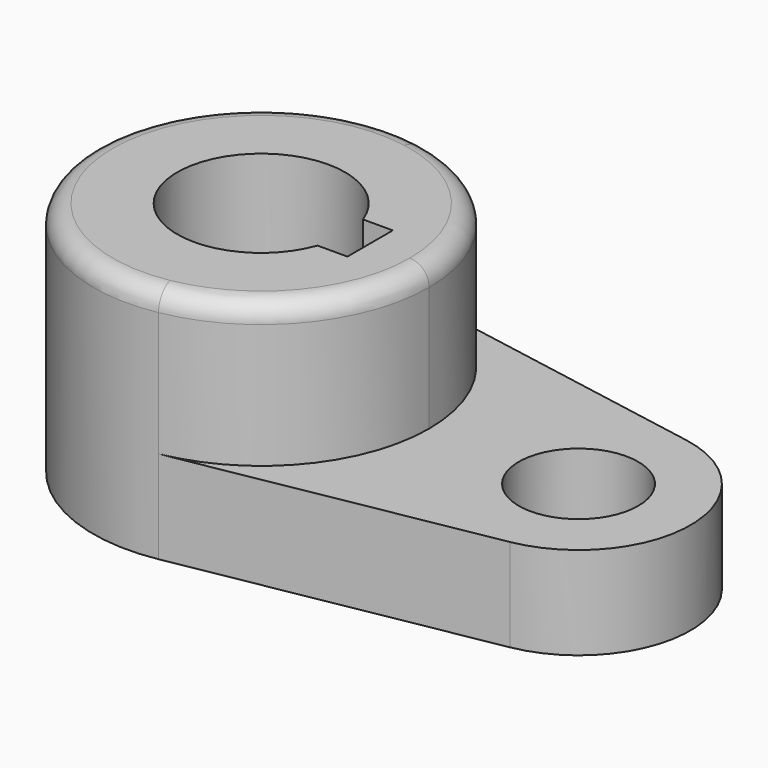
from build123d import *

# Parameters (mm, degrees)
F0_R     = 10.16
F1_DEPTH = 15.7734
F3_DEPTH = 24.4602
F5_DEPTH = 40.2346
F6_R     = 3.302


with BuildPart() as f1:
    # F0 (on Top) → F1 (new body)
    with BuildSketch(Plane.XY):
        with BuildLine():
            Line((30.349265, 18.751028), (-21.944853, 28.126541))
            ThreePointArc((-21.944853, 28.126541), (-55.5625, 0), (-21.944853, -28.126541))
            Line((-21.944853, -28.126541), (30.349265, -18.751028))
            ThreePointArc((30.349265, -18.751028), (46.0375, 0), (30.349265, 18.751028))
        make_face()
        with Locations((26.9875, 0)):
            Circle(F0_R, mode=Mode.SUBTRACT)
    extrude(amount=F1_DEPTH)

    # F2 (on face) → F3 (join)
    with BuildSketch(Plane.XY.offset(15.7734)):
        with BuildLine():
            ThreePointArc((-21.944853, -28.126541), (-5.071475, -18.336262), (1.5875, 0))
            ThreePointArc((1.5875, 0), (-5.071475, 18.336262), (-21.944853, 28.126541))
            ThreePointArc((-21.944853, 28.126541), (-55.5625, 0), (-21.944853, -28.126541))
        make_face()
        with BuildLine():
            ThreePointArc((-13.539735, -4.826), (-41.275, 0), (-13.539735, 4.826))
            Line((-13.539735, 4.826), (-8.4582, 4.826))
            Line((-8.4582, 4.826), (-8.4582, -4.826))
            Line((-8.4582, -4.826), (-13.539735, -4.826))
        make_face(mode=Mode.SUBTRACT)
    extrude(amount=F3_DEPTH)

    # F4 (on face) → F5 (cut, through all)
    with BuildSketch(Plane.XY.offset(40.2336)):
        with BuildLine():
            Line((-8.4582, 4.826), (-13.539735, 4.826))
            ThreePointArc((-13.539735, 4.826), (-41.275, 0), (-13.539735, -4.826))
            Line((-13.539735, -4.826), (-8.4582, -4.826))
            Line((-8.4582, -4.826), (-8.4582, 4.826))
        make_face()
    extrude(amount=-F5_DEPTH, mode=Mode.SUBTRACT)

    # F6
    f6_edges = [f1.edges().sort_by_distance(p)[0] for p in [
        (-32.030147, 28.126541, 40.2336),
    ]]
    fillet(f6_edges, radius=F6_R)


solid = f1.part
